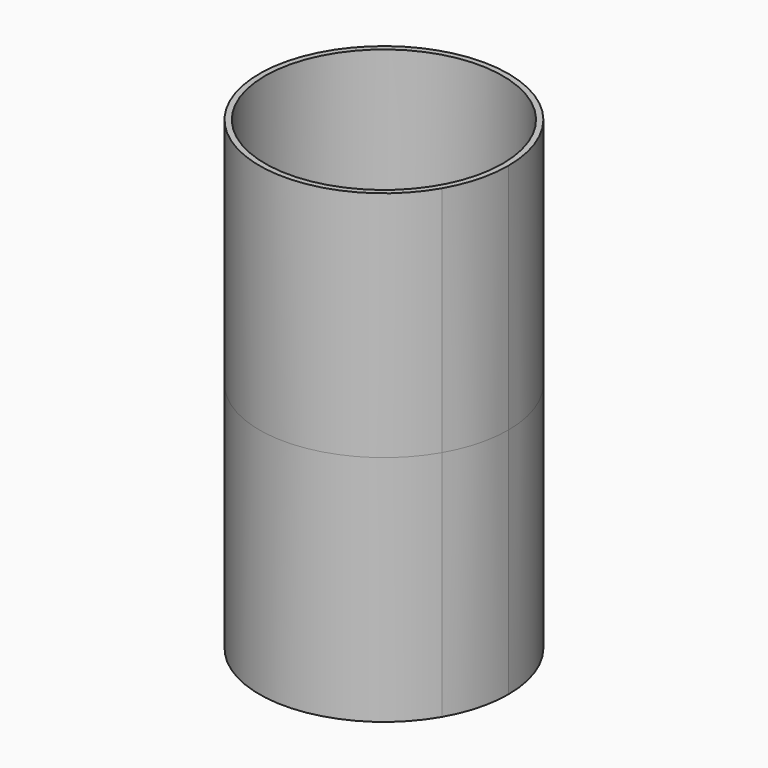
from build123d import *

# Parameters (mm, degrees)
F0_R     = 12
F1_DEPTH = 23.5


with BuildPart() as f1:
    # F0 (on Top) → F1 (new body, symmetric)
    with BuildSketch(Plane.XY):
        with BuildLine():
            ThreePointArc((10.8902694237, -6.2875000501), (12.1465172581, -3.2546495201), (12.575, 0))
            ThreePointArc((12.575, 0), (8.891867784, 8.8918677628), (2.99e-08, 12.575))
            ThreePointArc((2.99e-08, 12.575), (-10.8902693743, 6.2875001356), (-10.8902695943, -6.2874997546))
            ThreePointArc((-10.8902695943, -6.2874997546), (-1.706e-07, -12.575), (10.8902694237, -6.2875000501))
        make_face()
        Circle(F0_R, mode=Mode.SUBTRACT)
    extrude(amount=F1_DEPTH, both=True)


solid = f1.part
